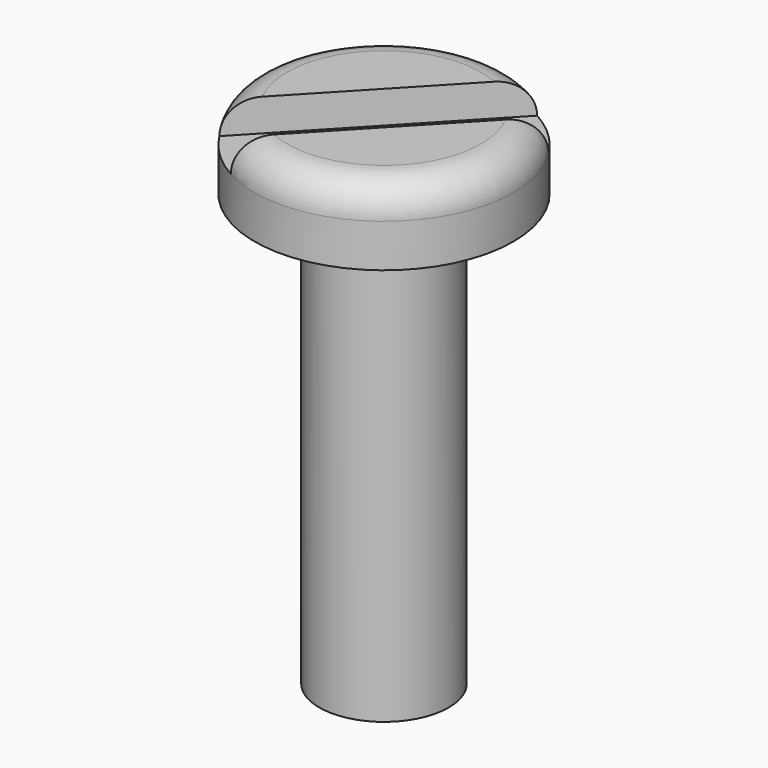
from build123d import *

# Parameters (mm, degrees)
POCKET_DEPTH = 0.75


with BuildPart() as part:
    # Sketch → Revolution (revolve)
    with BuildSketch(Plane.XZ):
        with BuildLine():
            Line((0, 0), (0, 11.75))
            Line((0, 11.75), (2.25, 11.75))
            ThreePointArc((3, 11), (2.78033, 11.53033), (2.25, 11.75))
            Line((3, 11), (3, 10))
            Line((3, 10), (1.5, 10))
            Line((1.5, 10), (1.5, 0))
            Line((1.5, 0), (0, 0))
        make_face()
    revolve(axis=Axis((0, 0, 0), (0, 0, 1)))

    # Sketch001 (on Face5 of Revolution) → Pocket (cut)
    with BuildSketch(Plane(origin=(0, 0, 11.75), x_dir=(-1, 0, 0), z_dir=(0, 0, 1))):
        Polygon((-3.274783, -2.372712), (2.184691, 3.4031), (3.274783, 2.372712), (-2.184691, -3.4031), align=None)
    extrude(amount=-POCKET_DEPTH, mode=Mode.SUBTRACT)


solid = part.part
